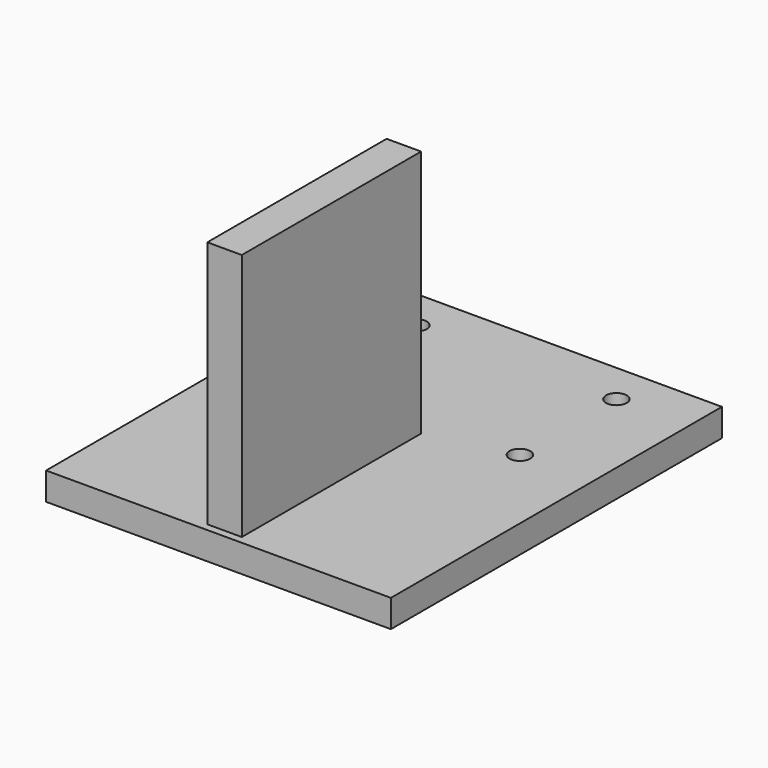
from build123d import *

# Parameters (mm, degrees)
F0_W     = 100
F0_H     = 120
F0_W_2   = 10
F0_H_2   = 65
F0_R     = 3
F1_DEPTH = 8
F2_DEPTH = 80


with BuildPart() as f1:
    # F0 (on Top) → F1 (new body)
    with BuildSketch(Plane.XY):
        Rectangle(F0_W, F0_H)
        with Locations((0, -25.301723)):
            Rectangle(F0_W_2, F0_H_2, mode=Mode.SUBTRACT)
        with Locations((-28.999999, 13.00821)):
            Circle(F0_R, mode=Mode.SUBTRACT)
        with Locations((-29, 48.00821)):
            Circle(F0_R, mode=Mode.SUBTRACT)
        with Locations((29.000001, 13.00821)):
            Circle(F0_R, mode=Mode.SUBTRACT)
        with Locations((29, 48.00821)):
            Circle(F0_R, mode=Mode.SUBTRACT)
        with Locations((0, -25.301723)):
            Rectangle(F0_W_2, F0_H_2)
    extrude(amount=F1_DEPTH)

    # F0 (on Top) → F2 (join)
    with BuildSketch(Plane.XY):
        with Locations((0, -25.301723)):
            Rectangle(F0_W_2, F0_H_2)
    extrude(amount=F2_DEPTH)


solid = f1.part
